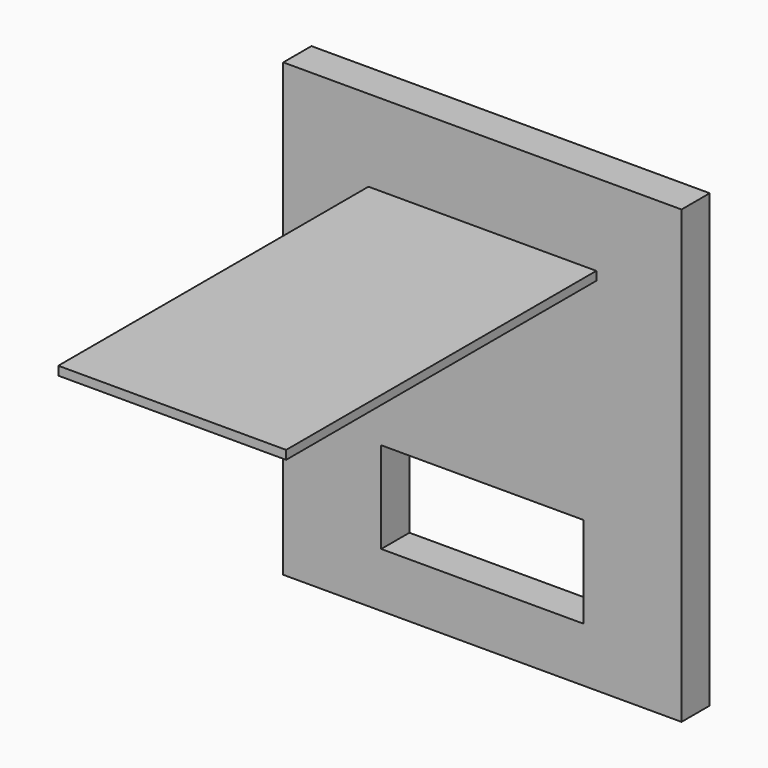
from build123d import *

# Parameters (mm, degrees)
F0_W     = 64.647466
F0_H     = 2.486437
F1_DEPTH = 120
F2_W     = 112.995804
F2_H     = 127.987776
F3_DEPTH = 10
F4_W     = 57.398408
F4_H     = 25.908977
F5_DEPTH = 25


with BuildPart() as f1:
    # F0 (on Front) → F1 (new body)
    with BuildSketch(Plane.XZ):
        with Locations((0, 57.010516)):
            Rectangle(F0_W, F0_H)
    extrude(amount=F1_DEPTH)

    # F2 (on Front) → F3 (join)
    with BuildSketch(Plane.XZ):
        with Locations((0, 17.450197)):
            Rectangle(F2_W, F2_H)
    extrude(amount=F3_DEPTH)

    # F4 (on face) → F5 (cut)
    with BuildSketch(Plane(origin=(0, 0, 0), x_dir=(-1, 0, 0), z_dir=(0, 1, 0))):
        with Locations((0, -18.103005)):
            Rectangle(F4_W, F4_H)
    extrude(amount=-F5_DEPTH, mode=Mode.SUBTRACT)


solid = f1.part
